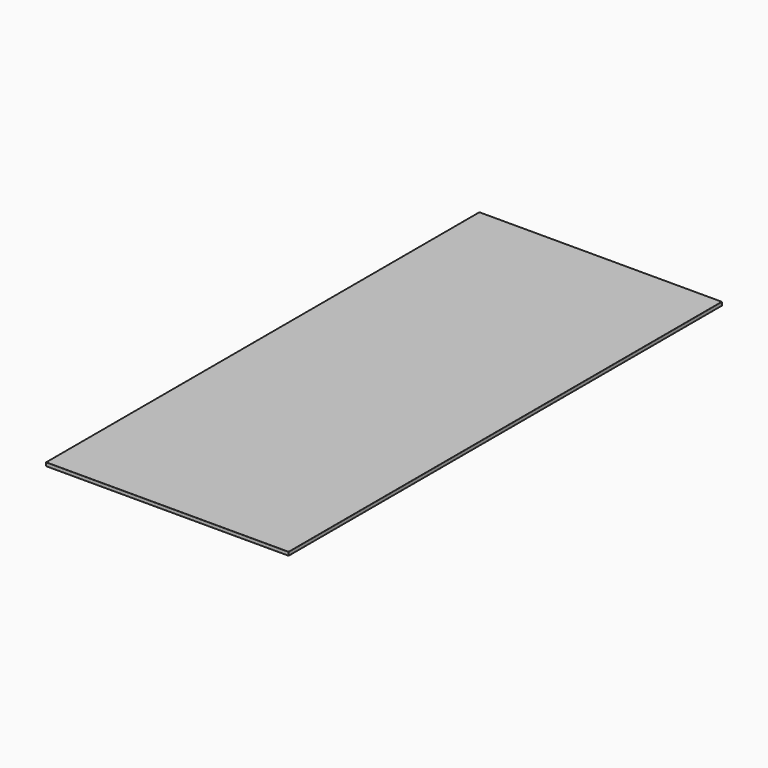
from build123d import *

# Parameters (mm, degrees)
F4_W     = 3790
F4_H     = 9290
F5_DEPTH = 50


with BuildPart() as f3:
    # F3: sweep along a path in F0
    with BuildLine(Plane.XY) as f3_path:
        Line((-2230, 4980), (-2230, -4980))
        Line((-2230, -4980), (2230, -4980))
        Line((2230, -4980), (2230, 4980))
        Line((2230, 4980), (-2230, 4980))
    # F2 (on line) → F3 (sweep)
    with BuildSketch(Plane.XZ):
        with BuildLine():
            Line((-1895, 0), (-2228, 0))
            ThreePointArc((-2228, 0), (-2229.4142135624, -0.5857864376), (-2230, -2))
            Line((-2230, -2), (-2230, -62.5603921946))
            ThreePointArc((-2230, -62.5603921946), (-2229.2679778112, -64.1070764772), (-2227.6077677297, -64.5215535459))
            Line((-2227.6077677297, -64.5215535459), (-2156.6077677297, -50.3215535459))
            ThreePointArc((-2156.6077677297, -50.3215535459), (-2155.4533157173, -49.6283700058), (-2155, -48.3603921946))
            Line((-2155, -48.3603921946), (-2155, -37))
            ThreePointArc((-2155, -37), (-2154.4142135624, -35.5857864376), (-2153, -35))
            Line((-2153, -35), (-2097, -35))
            ThreePointArc((-2097, -35), (-2095.5857864376, -35.5857864376), (-2095, -37))
            Line((-2095, -37), (-2095, -48))
            ThreePointArc((-2095, -48), (-2094.4142135624, -49.4142135624), (-2093, -50))
            Line((-2093, -50), (-1895, -50))
            Line((-1895, -50), (-1895, 0))
        make_face()
    sweep(path=f3_path.line, transition=Transition.RIGHT)

    # F4 (on face) → F5 (join)
    with BuildSketch(Plane.XY):
        Rectangle(F4_W, F4_H)
    extrude(amount=-F5_DEPTH)


solid = f3.part
